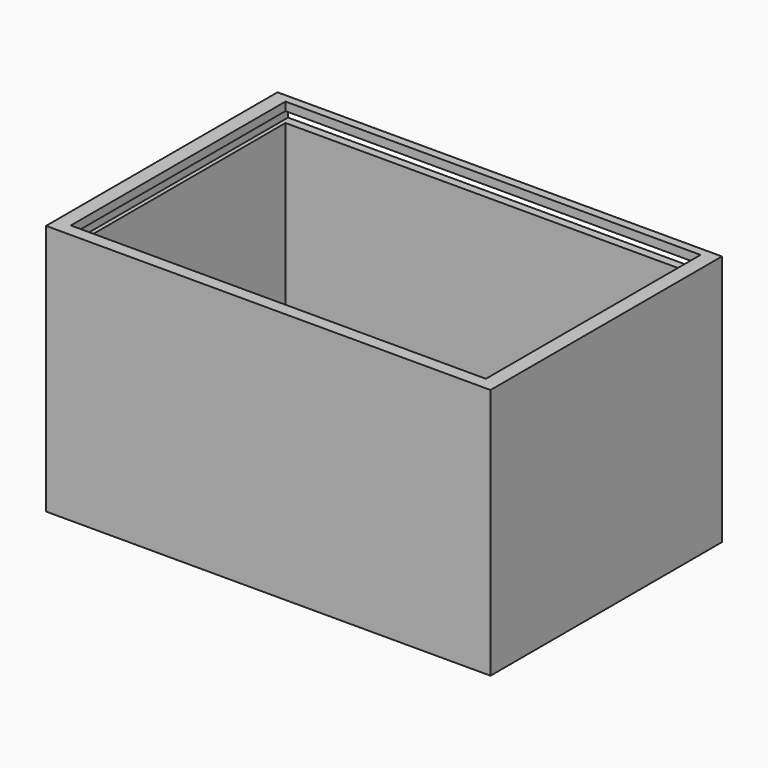
from build123d import *

# Parameters (mm, degrees)
F0_W     = 106
F0_H     = 69
F0_W_2   = 99
F0_H_2   = 64
F1_DEPTH = 60
F2_W     = 101
F2_H     = 2.5
F3_DEPTH = 67


with BuildPart() as f1:
    # F0 (on Top) → F1 (new body)
    with BuildSketch(Plane.XY):
        with Locations((4.242645, -2.941038)):
            Rectangle(F0_W, F0_H)
        with Locations((4.242645, -2.441038)):
            Rectangle(F0_W_2, F0_H_2, mode=Mode.SUBTRACT)
    extrude(amount=F1_DEPTH)

    # F2 (on face) → F3 (cut)
    with BuildSketch(Plane(origin=(0, 31.558962, 0), x_dir=(-1, 0, 0), z_dir=(0, 1, 0))):
        with Locations((-4.242645, 56.75)):
            Rectangle(F2_W, F2_H)
        with Locations((-4.242645, 3.25)):
            Rectangle(F2_W, F2_H)
    extrude(amount=-F3_DEPTH, mode=Mode.SUBTRACT)


solid = f1.part
